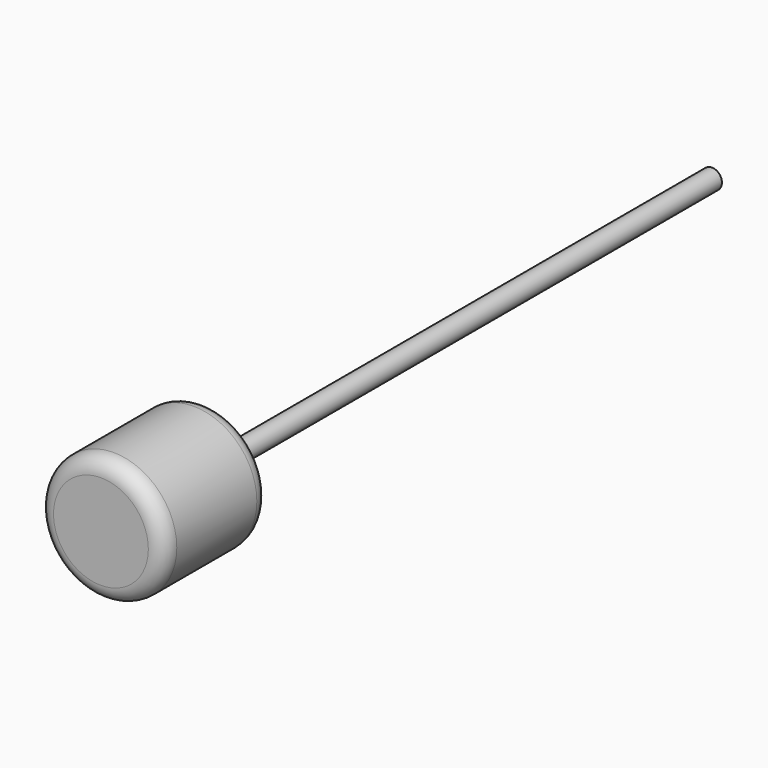
from build123d import *

# Parameters (mm, degrees)
F0_R     = 15.24
F1_DEPTH = 31.75
F2_R     = 3.81
F3_R     = 2.413
F4_DEPTH = 152.4


with BuildPart() as f1:
    # F0 (on Front) → F1 (new body)
    with BuildSketch(Plane.XZ):
        Circle(F0_R)
    extrude(amount=F1_DEPTH)

    # F2
    f2_edges = [f1.edges().sort_by_distance(p)[0] for p in [
        (-15.24, -31.75, 0),
        (-15.24, 0, 0),
    ]]
    fillet(f2_edges, radius=F2_R)

    # F3 (on face) → F4 (join)
    with BuildSketch(Plane(origin=(0, 0, 0), x_dir=(-1, 0, 0), z_dir=(0, 1, 0))):
        Circle(F3_R)
    extrude(amount=F4_DEPTH)


solid = f1.part
